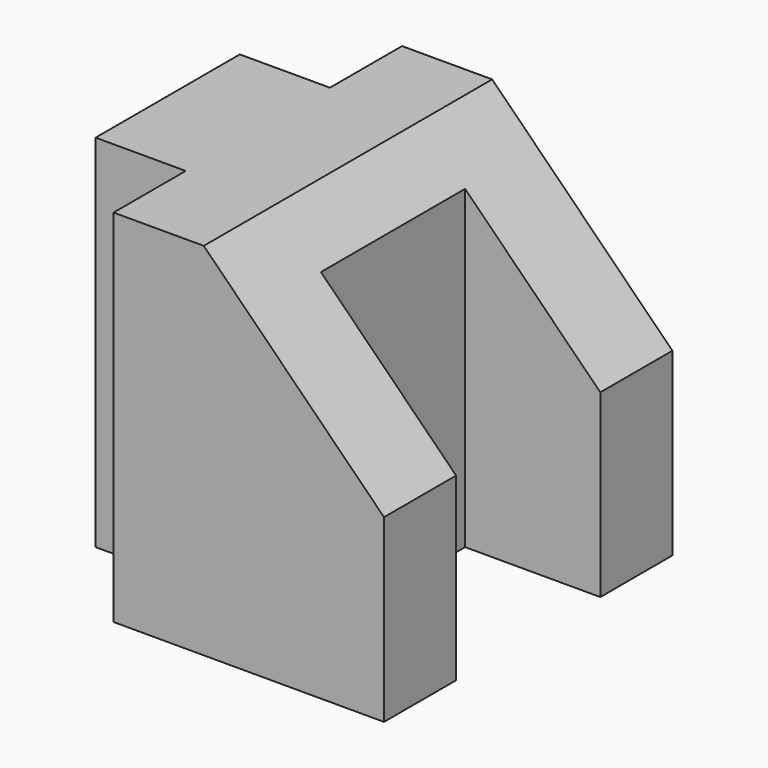
from build123d import *

# Parameters (mm, degrees)
F1_DEPTH = 25.4
F3_DEPTH = 25.4


with BuildPart() as f1:
    # F0 (on Top) → F1 (new body)
    with BuildSketch(Plane.XY):
        Polygon((0, 6.35), (0, 0), (6.35, 0), (6.35, 25.4), (0, 25.4), (0, 19.05), (-6.35, 19.05), (-6.35, 6.35), align=None)
        Polygon((6.35, 25.4), (6.35, 0), (19.05, 0), (19.05, 6.35), (9.525, 6.35), (9.525, 19.05), (19.05, 19.05), (19.05, 25.4), align=None)
    extrude(amount=F1_DEPTH)

    # F2 (on face) → F3 (cut)
    with BuildSketch(Plane.XZ):
        Polygon((19.05, 25.4), (6.35, 25.4), (19.05, 12.7), align=None)
    extrude(amount=-F3_DEPTH, mode=Mode.SUBTRACT)


solid = f1.part
